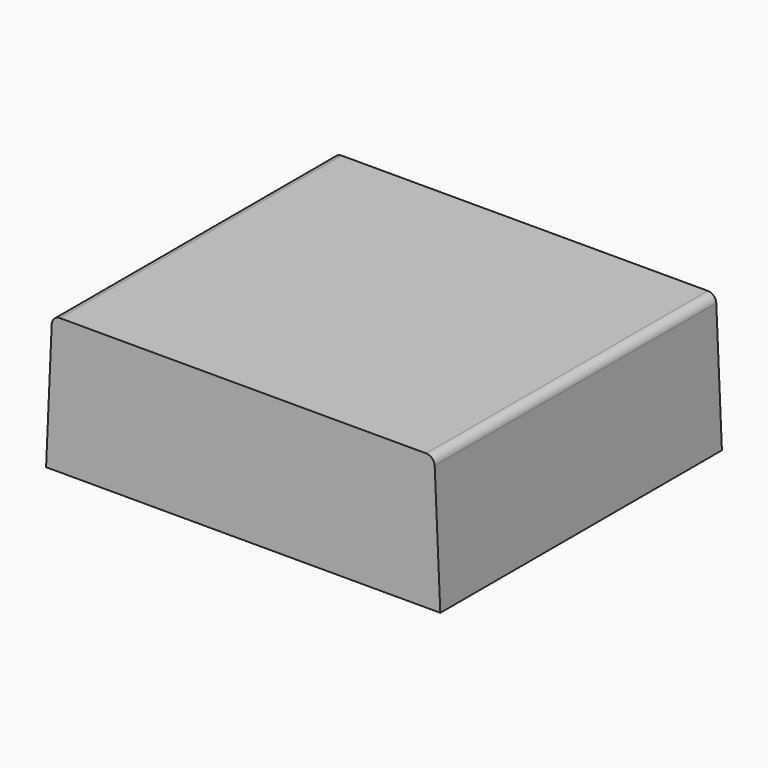
from build123d import *

# Parameters (mm, degrees)
SKETCH006_W       = 0.2
SKETCH006_H       = 0.2
PAD003_DEPTH      = 0.2
PAD004_DEPTH      = 0.625
PAD004_DEPTH_BACK = 0.625


with BuildPart() as body004:
    # Sketch006 → Pad003 (new body)
    with BuildSketch(Plane.XY):
        with Locations((0.1, 0)):
            Rectangle(SKETCH006_W, SKETCH006_H)
    extrude(amount=PAD003_DEPTH)


with BuildPart() as body004_1:
    # Body002 placement: moved
    add(body004.part.moved(Location((0, 0, 0.31778))))


with BuildPart() as lens:
    # Sketch007 → Pad004 (new body, two sides)
    with BuildSketch(Plane.XZ) as pad004_sk:
        with BuildLine():
            Line((-0.679971, 0.453544), (-0.7, 0))
            Line((-0.7, 0), (0.7, 0))
            Line((0.7, 0), (0.679971, 0.453544))
            ThreePointArc((0.679971, 0.453544), (0.67074, 0.473896), (0.65, 0.48222))
            Line((-0.65, 0.48222), (0.65, 0.48222))
            ThreePointArc((-0.65, 0.48222), (-0.67074, 0.473896), (-0.679971, 0.453544))
        make_face()
    extrude(amount=PAD004_DEPTH)
    extrude(pad004_sk.sketch, amount=-PAD004_DEPTH_BACK)


with BuildPart() as lens_1:
    # Body003 placement: moved
    add(lens.part.moved(Location((0, 0, 0.31778))))

    # Cut: cut Body004
    add(body004_1.part, mode=Mode.SUBTRACT)


solid = lens_1.part
